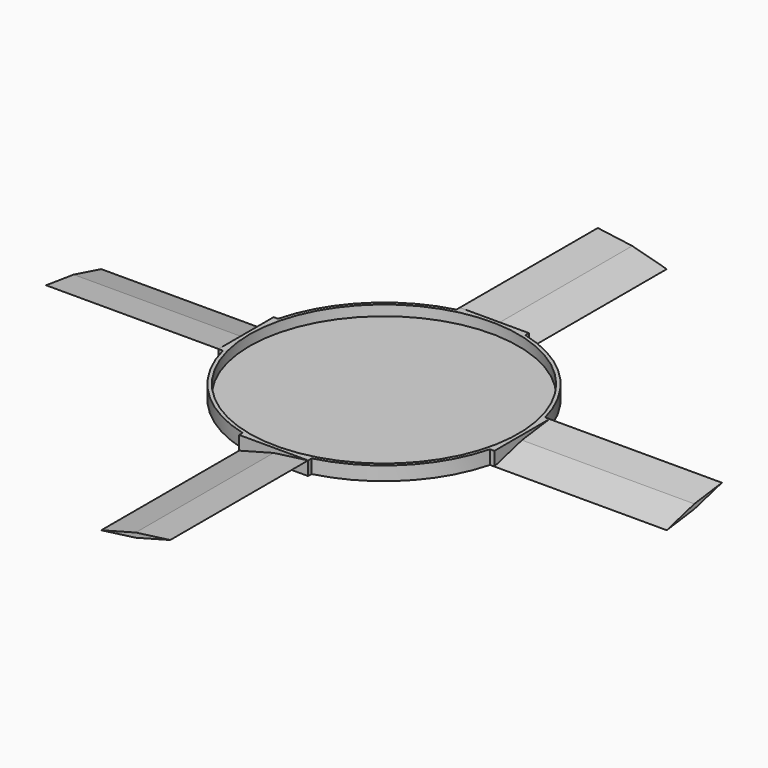
from build123d import *

# Parameters (mm, degrees)
F0_W      = 20
F0_H      = 2
F2_T      = -0.5
F4_DEPTH  = 2
F6_DEPTH  = 25
F8_DEPTH  = 25
F10_DEPTH = 25
F12_DEPTH = 25


with BuildPart() as f1:
    # F0 (on Front) → F1 (revolve)
    with BuildSketch(Plane.XZ):
        with Locations((-10, 1)):
            Rectangle(F0_W, F0_H)
    revolve(axis=Axis((0, 0, 1), (0, 0, -1)))

    # F2
    f2_openings = [f1.faces().sort_by_distance(p)[0] for p in [
        (0, 0, 2),
    ]]
    offset(amount=F2_T, openings=f2_openings)

    # F3 (on Top) → F4 (join)
    with BuildSketch(Plane.XY):
        with BuildLine():
            Line((5, 20), (0, 20))
            ThreePointArc((0, 20), (2.520086, 19.840594), (5, 19.364917))
            Line((5, 19.364917), (5, 20))
        make_face()
        with BuildLine():
            ThreePointArc((19.364917, 5), (19.840594, 2.520086), (20, 0))
            Line((20, 0), (20, 5))
            Line((20, 5), (19.364917, 5))
        make_face()
        with BuildLine():
            Line((20, -5), (20, 0))
            ThreePointArc((20, 0), (19.840594, -2.520086), (19.364917, -5))
            Line((19.364917, -5), (20, -5))
        make_face()
        with BuildLine():
            ThreePointArc((5, -19.364917), (2.520086, -19.840594), (0, -20))
            Line((0, -20), (5, -20))
            Line((5, -20), (5, -19.364917))
        make_face()
        with BuildLine():
            Line((-5, -20), (0, -20))
            ThreePointArc((0, -20), (-2.520086, -19.840594), (-5, -19.364917))
            Line((-5, -19.364917), (-5, -20))
        make_face()
        with BuildLine():
            ThreePointArc((-19.364917, -5), (-19.840594, -2.520086), (-20, 0))
            Line((-20, 0), (-20, -5))
            Line((-20, -5), (-19.364917, -5))
        make_face()
        with BuildLine():
            Line((-20, 5), (-20, 0))
            ThreePointArc((-20, 0), (-19.840594, 2.520086), (-19.364917, 5))
            Line((-19.364917, 5), (-20, 5))
        make_face()
        with BuildLine():
            Line((0, 20), (-5, 20))
            Line((-5, 20), (-5, 19.364917))
            ThreePointArc((-5, 19.364917), (-2.520086, 19.840594), (0, 20))
        make_face()
    extrude(amount=F4_DEPTH)

    # F5 (on face) → F6 (join)
    with BuildSketch(Plane(origin=(0, 20, 0), x_dir=(-1, 0, 0), z_dir=(0, 1, 0))):
        Polygon((0, 1.333333), (-5, 0), (0, 0.666667), (5, 2), align=None)
    extrude(amount=F6_DEPTH)

    # F7 (on face) → F8 (join)
    with BuildSketch(Plane(origin=(-20, 0, 0), x_dir=(0, -1, 0), z_dir=(-1, 0, 0))):
        Polygon((0, 0.666667), (5, 2), (0, 1.333333), (-5, 0), align=None)
    extrude(amount=F8_DEPTH)

    # F9 (on face) → F10 (join)
    with BuildSketch(Plane.XZ.offset(20)):
        Polygon((0, 1.333333), (-5, 0), (0, 0.666667), align=None)
        Polygon((5, 2), (0, 1.333333), (0, 0.666667), align=None)
    extrude(amount=F10_DEPTH)

    # F11 (on face) → F12 (join)
    with BuildSketch(Plane.YZ.offset(20)):
        Polygon((0, 1.333333), (-5, 0), (0, 0.666667), align=None)
        Polygon((5, 2), (0, 1.333333), (0, 0.666667), align=None)
    extrude(amount=F12_DEPTH)


solid = f1.part
